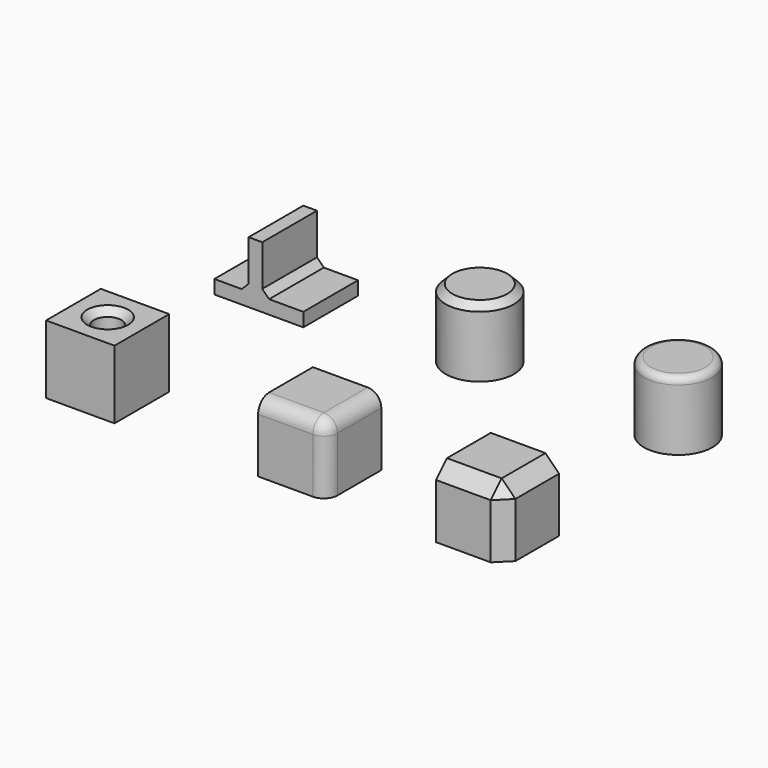
from build123d import *

# Parameters (mm, degrees)
BOX_W           = 10
BOX_H           = 10
BOX_DEPTH       = 10
FILLET_R        = 2
BOX001_W        = 10
BOX001_H        = 10
BOX001_DEPTH    = 10
CHAMFER_SIZE    = 2
TUBE_R          = 2
TUBE_DEPTH      = 10
BOX002_W        = 10
BOX002_H        = 10
BOX002_DEPTH    = 10
CHAMFER001_SIZE = 1
TUBE001_R       = 5
TUBE001_DEPTH   = 10
FILLET001_R     = 1
TUBE002_R       = 5
TUBE002_DEPTH   = 10
CHAMFER002_SIZE = 1
BOX004_W        = 2
BOX004_H        = 10
BOX004_DEPTH    = 9
BOX003_W        = 13
BOX003_H        = 10
BOX003_DEPTH    = 2
CHAMFER003_SIZE = 1
CHAMFER004_SIZE = 1


with BuildPart() as fillet_body:
    # Box → Box (new body)
    with BuildSketch(Plane(origin=(31, 0, 0), x_dir=(1, 0, 0), z_dir=(0, 0, 1))):
        with Locations((5, 5)):
            Rectangle(BOX_W, BOX_H)
    extrude(amount=BOX_DEPTH)

    # Fillet
    fillet_edges = [fillet_body.edges().sort_by_distance(p)[0] for p in [
        (41, 0, 5),
        (41, 5, 10),
        (36, 0, 10),
    ]]
    fillet(fillet_edges, radius=FILLET_R)


with BuildPart() as chamfer_body:
    # Box001 → Box001 (new body)
    with BuildSketch(Plane(origin=(57, 0, 0), x_dir=(1, 0, 0), z_dir=(0, 0, 1))):
        with Locations((5, 5)):
            Rectangle(BOX001_W, BOX001_H)
    extrude(amount=BOX001_DEPTH)

    # Chamfer
    chamfer_edges = [chamfer_body.edges().sort_by_distance(p)[0] for p in [
        (67, 0, 5),
        (67, 5, 10),
        (62, 0, 10),
    ]]
    chamfer(chamfer_edges, length=CHAMFER_SIZE)


with BuildPart() as tube:
    # Tube → Tube (new body)
    with BuildSketch(Plane(origin=(5, 5, 0), x_dir=(1, 0, 0), z_dir=(0, 0, 1))):
        Circle(TUBE_R)
    extrude(amount=TUBE_DEPTH)


with BuildPart() as chamfer001:
    # Box002 → Box002 (new body)
    with BuildSketch(Plane.XY):
        with Locations((5, 5)):
            Rectangle(BOX002_W, BOX002_H)
    extrude(amount=BOX002_DEPTH)

    # Cut: cut Tube
    add(tube.part, mode=Mode.SUBTRACT)

    # Chamfer001
    chamfer001_edges = [chamfer001.edges().sort_by_distance(p)[0] for p in [
        (3, 5, 10),
    ]]
    chamfer(chamfer001_edges, length=CHAMFER001_SIZE)


with BuildPart() as fillet001:
    # Tube001 → Tube001 (new body)
    with BuildSketch(Plane(origin=(62, 38, 0), x_dir=(1, 0, 0), z_dir=(0, 0, 1))):
        Circle(TUBE001_R)
    extrude(amount=TUBE001_DEPTH)

    # Fillet001
    fillet001_edges = [fillet001.edges().sort_by_distance(p)[0] for p in [
        (57, 38, 10),
    ]]
    fillet(fillet001_edges, radius=FILLET001_R)


with BuildPart() as chamfer002:
    # Tube002 → Tube002 (new body)
    with BuildSketch(Plane(origin=(33, 38, 0), x_dir=(1, 0, 0), z_dir=(0, 0, 1))):
        Circle(TUBE002_R)
    extrude(amount=TUBE002_DEPTH)

    # Chamfer002
    chamfer002_edges = [chamfer002.edges().sort_by_distance(p)[0] for p in [
        (28, 38, 10),
    ]]
    chamfer(chamfer002_edges, length=CHAMFER002_SIZE)


with BuildPart() as cub004:
    # Box004 → Box004 (new body)
    with BuildSketch(Plane(origin=(4, 32, 0), x_dir=(1, 0, 0), z_dir=(0, 0, 1))):
        with Locations((1, 5)):
            Rectangle(BOX004_W, BOX004_H)
    extrude(amount=BOX004_DEPTH)


with BuildPart() as chamfer004:
    # Box003 → Box003 (new body)
    with BuildSketch(Plane(origin=(-1, 32, 0), x_dir=(1, 0, 0), z_dir=(0, 0, 1))):
        with Locations((6.5, 5)):
            Rectangle(BOX003_W, BOX003_H)
    extrude(amount=BOX003_DEPTH)

    # Fusion: union Cub004
    add(cub004.part)

    # Chamfer003
    chamfer003_edges = [chamfer004.edges().sort_by_distance(p)[0] for p in [
        (6, 37, 2),
    ]]
    chamfer(chamfer003_edges, length=CHAMFER003_SIZE)

    # Chamfer004
    chamfer004_edges = [chamfer004.edges().sort_by_distance(p)[0] for p in [
        (4, 37, 2),
    ]]
    chamfer(chamfer004_edges, length=CHAMFER004_SIZE)


solid = Compound([fillet_body.part, chamfer_body.part, chamfer001.part, fillet001.part, chamfer002.part, chamfer004.part])
